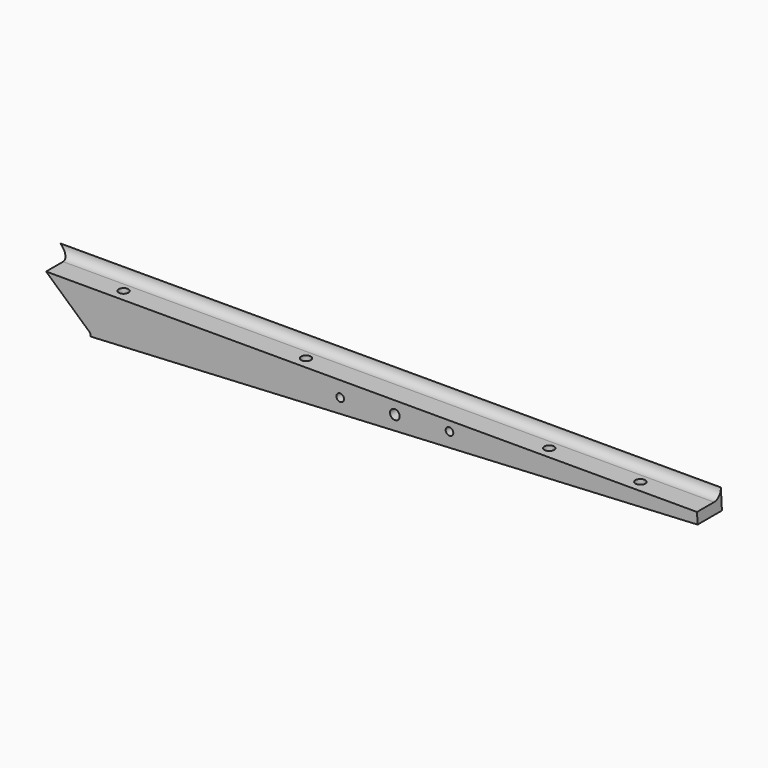
from build123d import *

# Parameters (mm, degrees)
CYLINDER031_R             = 1.6
CYLINDER031_DEPTH         = 100
CYLINDER032_R             = 1.25
CYLINDER032_DEPTH         = 100
CYLINDER030_R             = 1.25
CYLINDER030_DEPTH         = 100
FUSION026_PLACEMENT_ANGLE = 3.00002
CYLINDER020_R             = 3.2
CYLINDER020_DEPTH         = 3
CYLINDER021_R             = 1.6
CYLINDER021_DEPTH         = 30
CYLINDER022_R             = 3.2
CYLINDER022_DEPTH         = 3
CYLINDER023_R             = 1.6
CYLINDER023_DEPTH         = 30
CYLINDER024_R             = 3.2
CYLINDER024_DEPTH         = 3
CYLINDER025_R             = 1.6
CYLINDER025_DEPTH         = 30
CYLINDER018_R             = 3.2
CYLINDER018_DEPTH         = 3
CYLINDER019_R             = 1.6
CYLINDER019_DEPTH         = 30
BOX_W                     = 600
BOX_H                     = 10
BOX_DEPTH                 = 20
BOX_PLACEMENT_ANGLE       = 3
BOX001_W                  = 600
BOX001_H                  = 10
BOX001_DEPTH              = 20
BOX001_PLACEMENT_ANGLE    = 3
FILLET004_R               = 3
BOX004_W                  = 14
BOX004_H                  = 10
BOX004_DEPTH              = 27
BOX004_PLACEMENT_ANGLE    = 45
BOX005_W                  = 200
BOX005_H                  = 10
BOX005_DEPTH              = 17
CUT006_PLACEMENT_ANGLE    = 2.999995


with BuildPart() as cylinder031:
    # Cylinder031 → Cylinder031 (new body)
    with BuildSketch(Plane(origin=(418, 0, 0), x_dir=(1, 0, 0), z_dir=(0, -1, 0))):
        Circle(CYLINDER031_R)
    extrude(amount=CYLINDER031_DEPTH)


with BuildPart() as cylinder032:
    # Cylinder032 → Cylinder032 (new body)
    with BuildSketch(Plane(origin=(436, 0, 0), x_dir=(1, 0, 0), z_dir=(0, -1, 0))):
        Circle(CYLINDER032_R)
    extrude(amount=CYLINDER032_DEPTH)


with BuildPart() as fusion026:
    # Cylinder030 → Cylinder030 (new body)
    with BuildSketch(Plane(origin=(400, 0, 0), x_dir=(1, 0, 0), z_dir=(0, -1, 0))):
        Circle(CYLINDER030_R)
    extrude(amount=CYLINDER030_DEPTH)

    # Fusion026: union Cylinder031, Cylinder032
    add(cylinder031.part)
    add(cylinder032.part)


with BuildPart() as fusion026_1:
    # Fusion026 placement: moved
    add(fusion026.part.moved(Location((83, 77, -26))).rotate(Axis((83, 77, -26), (0, -1, 0)), FUSION026_PLACEMENT_ANGLE))


with BuildPart() as cylinder020:
    # Cylinder020 → Cylinder020 (new body)
    with BuildSketch(Plane(origin=(578, 6, -35), x_dir=(1, 0, 0), z_dir=(0, 0, 1))):
        Circle(CYLINDER020_R)
    extrude(amount=CYLINDER020_DEPTH)


with BuildPart() as fusion017:
    # Cylinder021 → Cylinder021 (new body)
    with BuildSketch(Plane(origin=(578, 6, -35), x_dir=(1, 0, 0), z_dir=(0, 0, 1))):
        Circle(CYLINDER021_R)
    extrude(amount=CYLINDER021_DEPTH)

    # Fusion017: union Cylinder020
    add(cylinder020.part)


with BuildPart() as fusion017_1:
    # Fusion017 placement: moved
    add(fusion017.part.moved(Location((-170, 50, 21.1))))


with BuildPart() as cylinder022:
    # Cylinder022 → Cylinder022 (new body)
    with BuildSketch(Plane(origin=(578, 6, -35), x_dir=(1, 0, 0), z_dir=(0, 0, 1))):
        Circle(CYLINDER022_R)
    extrude(amount=CYLINDER022_DEPTH)


with BuildPart() as fusion018:
    # Cylinder023 → Cylinder023 (new body)
    with BuildSketch(Plane(origin=(578, 6, -35), x_dir=(1, 0, 0), z_dir=(0, 0, 1))):
        Circle(CYLINDER023_R)
    extrude(amount=CYLINDER023_DEPTH)

    # Fusion018: union Cylinder022
    add(cylinder022.part)


with BuildPart() as fusion018_1:
    # Fusion018 placement: moved
    add(fusion018.part.moved(Location((-110, 50, 24.3))))


with BuildPart() as cylinder024:
    # Cylinder024 → Cylinder024 (new body)
    with BuildSketch(Plane(origin=(578, 6, -35), x_dir=(1, 0, 0), z_dir=(0, 0, 1))):
        Circle(CYLINDER024_R)
    extrude(amount=CYLINDER024_DEPTH)


with BuildPart() as fusion019:
    # Cylinder025 → Cylinder025 (new body)
    with BuildSketch(Plane(origin=(578, 6, -35), x_dir=(1, 0, 0), z_dir=(0, 0, 1))):
        Circle(CYLINDER025_R)
    extrude(amount=CYLINDER025_DEPTH)

    # Fusion019: union Cylinder024
    add(cylinder024.part)


with BuildPart() as fusion019_1:
    # Fusion019 placement: moved
    add(fusion019.part.moved(Location((-30, 50, 28.5))))


with BuildPart() as cylinder018:
    # Cylinder018 → Cylinder018 (new body)
    with BuildSketch(Plane(origin=(578, 6, -35), x_dir=(1, 0, 0), z_dir=(0, 0, 1))):
        Circle(CYLINDER018_R)
    extrude(amount=CYLINDER018_DEPTH)


with BuildPart() as fusion034:
    # Cylinder019 → Cylinder019 (new body)
    with BuildSketch(Plane(origin=(578, 6, -35), x_dir=(1, 0, 0), z_dir=(0, 0, 1))):
        Circle(CYLINDER019_R)
    extrude(amount=CYLINDER019_DEPTH)

    # Fusion016: union Cylinder018
    add(cylinder018.part)


with BuildPart() as fusion034_1:
    # Fusion016 placement: moved
    add(fusion034.part.moved(Location((0, 50, 30))))

    # Fusion034: union Fusion017, Fusion018, Fusion019
    add(fusion017_1.part)
    add(fusion018_1.part)
    add(fusion019_1.part)


with BuildPart() as box:
    # Box → Box (new body)
    with BuildSketch(Plane.XY):
        with Locations((300, 5)):
            Rectangle(BOX_W, BOX_H)
    extrude(amount=BOX_DEPTH)


with BuildPart() as box_1:
    # Box placement: moved
    add(box.part.rotate(Axis((0, 0, 0), (0, 1, 0)), BOX_PLACEMENT_ANGLE))


with BuildPart() as fillet004:
    # Box001 → Box001 (new body)
    with BuildSketch(Plane.XY):
        with Locations((300, 5)):
            Rectangle(BOX001_W, BOX001_H)
    extrude(amount=BOX001_DEPTH)


with BuildPart() as fillet004_1:
    # Box001 placement: moved
    add(fillet004.part.moved(Location((0, 52, 0))).rotate(Axis((0, 52, 0), (0, 1, 0)), BOX001_PLACEMENT_ANGLE))

    # Fusion010: union Box
    add(box_1.part)

    # Fillet004
    fillet004_edges = [fillet004_1.edges().sort_by_distance(p)[0] for p in [
        (300.63558, 62, 4.271804),
        (299.58886, 62, -15.700787),
        (299.58886, 0, -15.700787),
        (300.63558, 0, 4.271804),
    ]]
    fillet(fillet004_edges, radius=FILLET004_R)


with BuildPart() as box004:
    # Box004 → Box004 (new body)
    with BuildSketch(Plane.XY):
        with Locations((7, 5)):
            Rectangle(BOX004_W, BOX004_H)
    extrude(amount=BOX004_DEPTH)


with BuildPart() as box004_1:
    # Box004 placement: moved
    add(box004.part.moved(Location((400, 0, -35))).rotate(Axis((400, 0, -35), (0, -1, 0)), BOX004_PLACEMENT_ANGLE))


with BuildPart() as right_wheels_frame:
    # Box005 → Box005 (new body)
    with BuildSketch(Plane(origin=(399, 0, -35), x_dir=(1, 0, 0), z_dir=(0, 0, 1))):
        with Locations((100, 5)):
            Rectangle(BOX005_W, BOX005_H)
    extrude(amount=BOX005_DEPTH)

    # Fusion003: union Box004
    add(box004_1.part)


with BuildPart() as right_wheels_frame_1:
    # Fusion003 placement: moved
    add(right_wheels_frame.part.moved(Location((0, 52, 0))))

    # Cut006: cut Fillet004
    add(fillet004_1.part, mode=Mode.SUBTRACT)


with BuildPart() as right_wheels_frame_2:
    # Cut006 placement: moved
    add(right_wheels_frame_1.part.rotate(Axis((0, 0, 0), (0, -1, 0)), CUT006_PLACEMENT_ANGLE))

    # Cut019: cut Fusion034
    add(fusion034_1.part, mode=Mode.SUBTRACT)

    # Cut020: cut Fusion026
    add(fusion026_1.part, mode=Mode.SUBTRACT)


with BuildPart() as right_wheels_frame_3:
    # Cut020 placement: moved
    add(right_wheels_frame_2.part.moved(Location((0, 10, 0))))


solid = right_wheels_frame_3.part
